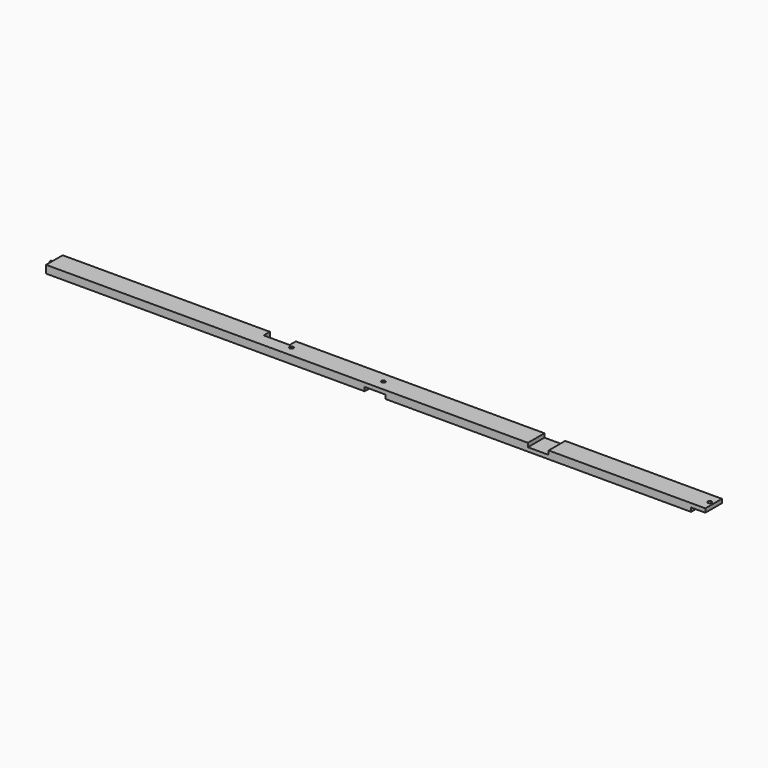
from build123d import *

# Parameters (mm, degrees)
F1_DEPTH = 50.8
F3_R     = 4.7625
F3_W     = 63.5
F3_H     = 101.6
F4_DEPTH = 12.7
F5_R     = 4.7625
F6_DEPTH = 9.525
F7_W     = 50.8
F7_H     = 130.0629
F8_DEPTH = 25.4


with BuildPart() as f1:
    # F0 (on Front) → F1 (new body)
    with BuildSketch(Plane.XZ):
        Polygon((1616.075, 9.525), (1616.075, 19.05), (0, 19.05), (0, 0), (781.05, 0), (781.05, 9.525), (831.85, 9.525), (831.85, 0), (1581.15, 0), (1581.15, 9.525), align=None)
    extrude(amount=F1_DEPTH)

    # F3 (on offset) → F4 (cut, symmetric)
    with BuildSketch(Plane.XY.offset(9.525)):
        with Locations((806.45, -25.4)):
            Circle(F3_R)
        with Locations((1606.55, -25.4)):
            Circle(F3_R)
        with Locations((581.025, -25.4)):
            Circle(F3_R)
        with Locations((539.75, 31.75)):
            Rectangle(F3_W, F3_H)
    extrude(amount=F4_DEPTH, both=True, mode=Mode.SUBTRACT)

    # F5 (on Right) → F6 (join)
    with BuildSketch(Plane.YZ):
        with Locations((-25.4, 9.525)):
            Circle(F5_R)
    extrude(amount=-F6_DEPTH)

    # F7 (on offset) → F8 (cut)
    with BuildSketch(Plane.XY.offset(9.525)):
        with Locations((1206.5, -27.952656)):
            Rectangle(F7_W, F7_H)
    extrude(amount=F8_DEPTH, mode=Mode.SUBTRACT)


solid = f1.part
